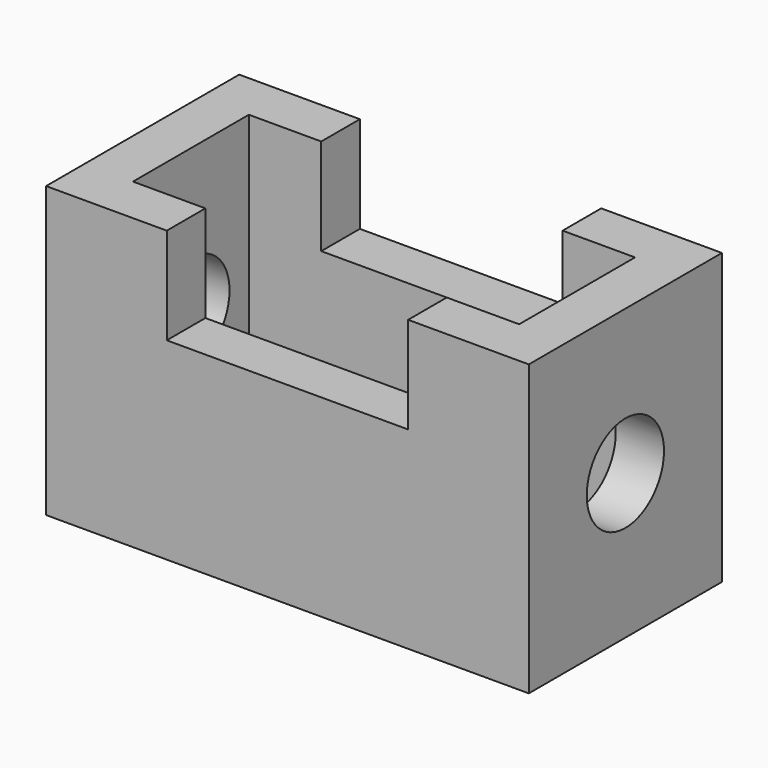
from build123d import *

# Parameters (mm, degrees)
F0_W     = 254
F0_H     = 127
F1_DEPTH = 76.2
F2_W     = 203.2
F2_H     = 76.2
F3_DEPTH = 152.401
F4_W     = 127
F4_H     = 55.738516
F5_DEPTH = 127.001
F6_R     = 25.4
F7_DEPTH = 254.001


with BuildPart() as f1:
    # F0 (on Top) → F1 (new body, symmetric)
    with BuildSketch(Plane.XY):
        Rectangle(F0_W, F0_H)
    extrude(amount=F1_DEPTH, both=True)

    # F2 (on face) → F3 (cut, through all)
    with BuildSketch(Plane.XY.offset(76.2)):
        Rectangle(F2_W, F2_H)
    extrude(amount=-F3_DEPTH, mode=Mode.SUBTRACT)

    # F4 (on face) → F5 (cut, through all)
    with BuildSketch(Plane.XZ.offset(63.5)):
        with Locations((0, 53.269258)):
            Rectangle(F4_W, F4_H)
    extrude(amount=-F5_DEPTH, mode=Mode.SUBTRACT)

    # F6 (on face) → F7 (cut, through all)
    with BuildSketch(Plane.YZ.offset(127)):
        Circle(F6_R)
    extrude(amount=-F7_DEPTH, mode=Mode.SUBTRACT)


solid = f1.part
